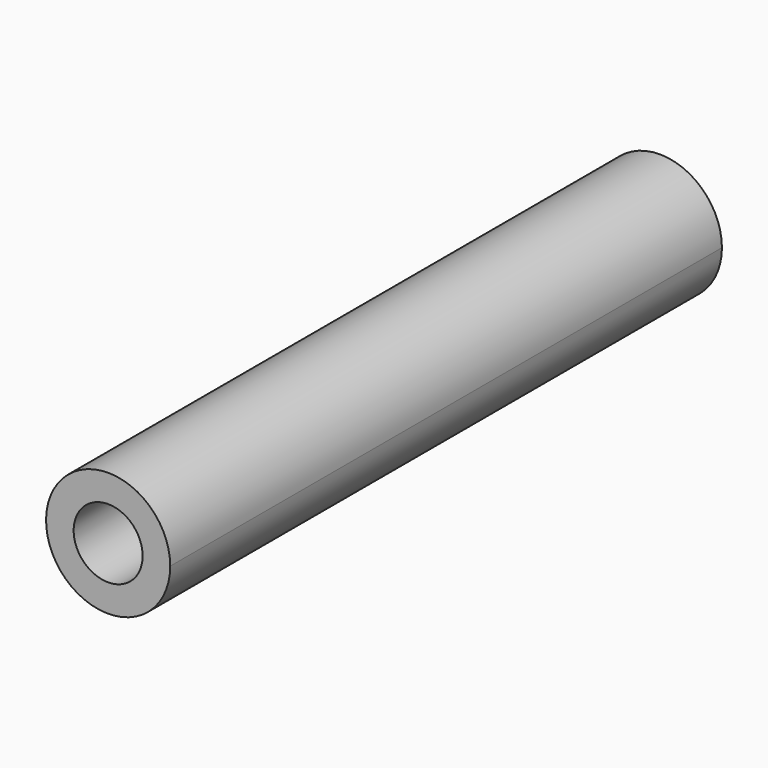
from build123d import *

# Parameters (mm, degrees)
F0_R     = 3.175
F1_DEPTH = 63.5


with BuildPart() as f1:
    # F0 (on Front) → F1 (new body)
    with BuildSketch(Plane.XZ):
        with BuildLine():
            ThreePointArc((-8.182663, -5.506983), (-3.195791, -4.549339), (-0.9398, 0))
            ThreePointArc((-0.9398, 0), (-4.591961, 5.329721), (-10.88063, 3.847543))
            ThreePointArc((-10.88063, 3.847543), (-12.145978, -1.583727), (-8.182663, -5.506983))
        make_face()
        with Locations((-6.6548, 0)):
            Circle(F0_R, mode=Mode.SUBTRACT)
    extrude(amount=-F1_DEPTH)


solid = f1.part
